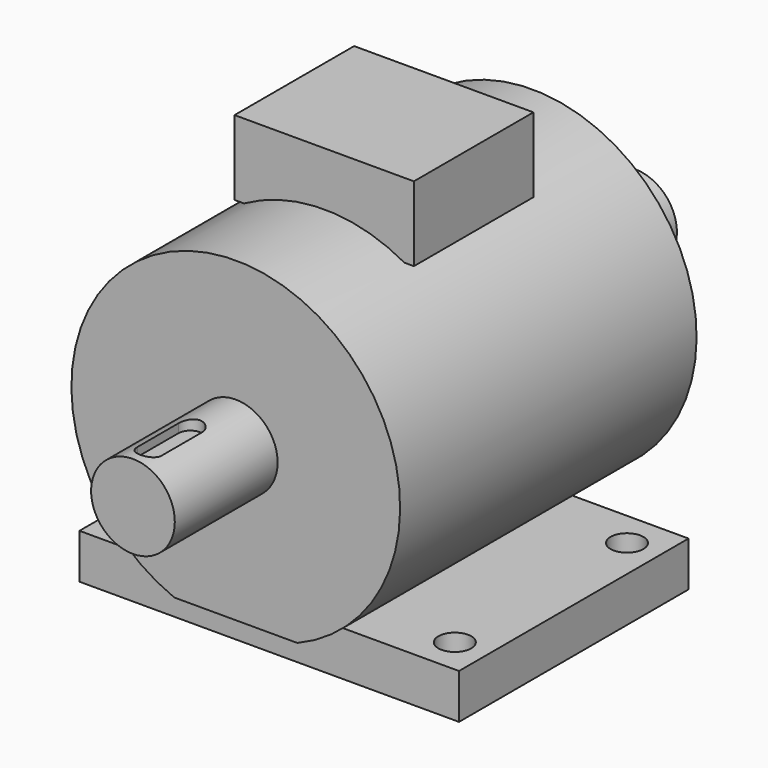
from build123d import *

# Parameters (mm, degrees)
F0_W           = 127
F0_H           = 96
F1_DEPTH       = 15
F3_DEPTH       = 62
F3_DEPTH_BACK  = 62
F4_R           = 14
F5_DEPTH       = 43
F6_R           = 14
F7_DEPTH       = 43
F10_DEPTH      = 3.5
F12_D          = 11
F12_DEPTH      = 15.001
F14_DEPTH      = 25
F14_DEPTH_BACK = 25
F15_W          = 8
F15_H          = 17
F16_DEPTH      = 7
F17_W          = 8
F17_H          = 17
F18_DEPTH      = 7


with BuildPart() as f1:
    # F0 (on Top) → F1 (new body)
    with BuildSketch(Plane.XY):
        Rectangle(F0_W, F0_H)
    extrude(amount=F1_DEPTH)

    # F2 (on Front) → F3 (join, two sides)
    with BuildSketch(Plane.XZ) as f3_sk:
        with BuildLine():
            Line((-20.591260282, 15), (20.591260282, 15))
            ThreePointArc((20.591260282, 15), (0, 121), (-20.591260282, 15))
        make_face()
    extrude(amount=F3_DEPTH)
    extrude(f3_sk.sketch, amount=-F3_DEPTH_BACK)

    # F4 (on face) → F5 (join)
    with BuildSketch(Plane(origin=(0, 62, 0), x_dir=(-1, 0, 0), z_dir=(0, 1, 0))):
        with Locations((0, 66)):
            Circle(F4_R)
    extrude(amount=F5_DEPTH)

    # F6 (on face) → F7 (join)
    with BuildSketch(Plane.XZ.offset(62)):
        with Locations((0, 66)):
            Circle(F6_R)
    extrude(amount=F7_DEPTH)

    # F9 (on offset) → F10 (cut)
    with BuildSketch(Plane.XY.offset(80)):
        with BuildLine():
            ThreePointArc((4, 98), (0, 102), (-4, 98))
            Line((-4, 98), (-4, 81))
            ThreePointArc((-4, 81), (0, 77), (4, 81))
            Line((4, 81), (4, 98))
        make_face()
        with BuildLine():
            ThreePointArc((4, -81), (0, -77), (-4, -81))
            Line((-4, -81), (-4, -98))
            ThreePointArc((-4, -98), (0, -102), (4, -98))
            Line((4, -98), (4, -81))
        make_face()
    extrude(amount=-F10_DEPTH, mode=Mode.SUBTRACT)

    # F12 (through all, one way)
    with BuildSketch(Plane.XY.offset(15)):
        with Locations((52.5, 36), (52.5, -36), (-52.5, -36), (-52.5, 36)):
            Circle(F12_D / 2)
    extrude(amount=-F12_DEPTH, mode=Mode.SUBTRACT)

    # F13 (on Front) → F14 (join, two sides)
    with BuildSketch(Plane.XZ) as f14_sk:
        with BuildLine():
            Line((30, 139), (-30, 139))
            Line((-30, 139), (-30, 114))
            Line((-30, 114), (-26.8514431642, 114))
            ThreePointArc((-26.8514431642, 114), (0, 121), (26.8514431642, 114))
            Line((26.8514431642, 114), (30, 114))
            Line((30, 114), (30, 139))
        make_face()
    extrude(amount=F14_DEPTH)
    extrude(f14_sk.sketch, amount=-F14_DEPTH_BACK)


with BuildPart() as f16:
    # F15 (on face) → F16 (new body)
    with BuildSketch(Plane.XY.offset(76.5)):
        with Locations((0, 89.5)):
            Rectangle(F15_W, F15_H)
    extrude(amount=F16_DEPTH)


with BuildPart() as f18:
    # F17 (on face) → F18 (new body)
    with BuildSketch(Plane.XY.offset(76.5)):
        with Locations((0, -89.5)):
            Rectangle(F17_W, F17_H)
    extrude(amount=F18_DEPTH)


solid = Compound([f1.part, f16.part])
